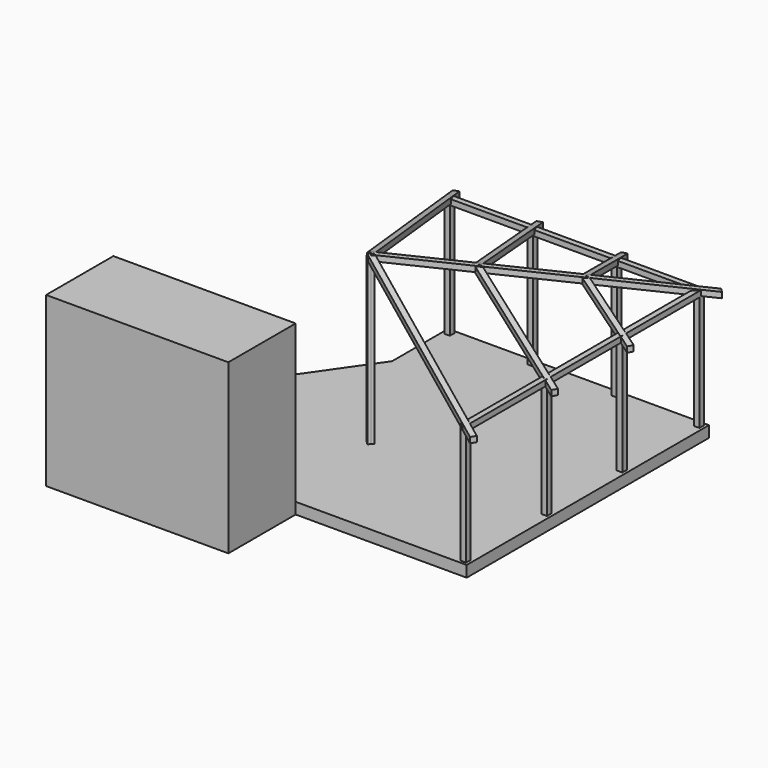
from build123d import *

# Parameters (mm, degrees)
F1_DEPTH  = 200
F2_W      = 100
F2_H      = 100
F3_DEPTH  = 2050
F5_DEPTH  = 100
F8_W      = 100
F8_H      = 100
F9_DEPTH  = 2050
F10_DEPTH = 1800
F14_W     = 100
F14_H     = 100
F19_W     = 100
F19_H     = 100
F24_W     = 100
F24_H     = 100
F29_W     = 100
F29_H     = 100
F34_W     = 100
F34_H     = 100
F39_W     = 100
F39_H     = 100
F44_W     = 100
F44_H     = 100
F47_DEPTH = 2923.5723116355
F6_W      = 3250
F6_H      = 1500
F48_DEPTH = 3000
F51_DEPTH = 170
F53_DEPTH = 170


with BuildPart() as f1:
    # F0 (on Top) → F1 (new body)
    with BuildSketch(Plane.XY):
        Polygon((0, -5400), (0, 0), (-4650, 0), (-4650, -1250), (-6300, -3620), (-6300, -5400), align=None)
    extrude(amount=F1_DEPTH)

    # F8 (on face) → F9 (join)
    with BuildSketch(Plane.XY.offset(200)):
        with Locations((-100, -5300)):
            Rectangle(F8_W, F8_H)
    extrude(amount=F9_DEPTH)


with BuildPart() as f3:
    # F2 (on face) → F3 (new body)
    with BuildSketch(Plane.XY.offset(200)):
        with Locations((-100, -100)):
            Rectangle(F2_W, F2_H)
    extrude(amount=F3_DEPTH)


with BuildPart() as f3b:
    # F2 (on face) → F3, piece 2 (new body)
    with BuildSketch(Plane.XY.offset(200)):
        with Locations((-100, -1820)):
            Rectangle(F2_W, F2_H)
    extrude(amount=F3_DEPTH)


with BuildPart() as f3c:
    # F2 (on face) → F3, piece 3 (new body)
    with BuildSketch(Plane.XY.offset(200)):
        with Locations((-100, -3500)):
            Rectangle(F2_W, F2_H)
    extrude(amount=F3_DEPTH)


with BuildPart() as f3d:
    # F2 (on face) → F3, piece 4 (new body)
    with BuildSketch(Plane.XY.offset(200)):
        with Locations((-1570, -100)):
            Rectangle(F2_W, F2_H)
    extrude(amount=F3_DEPTH)


with BuildPart() as f3e:
    # F2 (on face) → F3, piece 5 (new body)
    with BuildSketch(Plane.XY.offset(200)):
        with Locations((-4550, -100)):
            Rectangle(F2_W, F2_H)
    extrude(amount=F3_DEPTH)


with BuildPart() as f3f:
    # F2 (on face) → F3, piece 6 (new body)
    with BuildSketch(Plane.XY.offset(200)):
        with Locations((-3065, -100)):
            Rectangle(F2_W, F2_H)
    extrude(amount=F3_DEPTH)


with BuildPart() as f5:
    # F4 (on face) → F5 (new body)
    with BuildSketch(Plane.XY.offset(2250)):
        Polygon((-150, -50), (-4600, -50), (-4600, -150), (-150, -150), (-50, -50), align=None)
        Polygon((-50, -150), (-50, -50), (-150, -150), (-150, -3550), (-50, -3550), align=None)
    extrude(amount=F5_DEPTH)

    # F10 (add, through all): a face of the model
    f10_faces = [f5.faces().sort_by_distance(p)[0] for p in [
        (-100, -3550, 2300),
    ]]
    extrude(f10_faces, amount=F10_DEPTH)


with BuildPart() as f15:
    # F15: sweep along a path in F12
    with BuildLine(Plane(origin=(0, 0, 0), x_dir=(-0.7071067812, -0.7071067812, 0), z_dir=(-0.7071067812, 0.7071067812, 0))) as f15_path:
        Line((4741.4213562373, 3123.5723116355), (-175.4912601344, 2256.5879555833))
    # F14 (on face) → F15 (sweep)
    with BuildSketch(Plane(origin=(-3352.6911934581, -3352.6911934581, 0), x_dir=(0.7071067812, -0.7071067812, 0), z_dir=(-0.7071067812, -0.7071067812, 0))):
        with Locations((0, 3123.5723116355)):
            Rectangle(F14_W, F14_H)
    sweep(path=f15_path.line)


with BuildPart() as f20:
    # F20: sweep along a path in F17
    with BuildLine(Plane(origin=(-2362.1864095052, -3945.6828345314, 0), x_dir=(0.8579936122, -0.5136603562, 0), z_dir=(-0.5136603562, -0.8579936122, 0))) as f20_path:
        Line((-1154.4430750004, 3123.5723116355), (2949.6790376872, 2247.8291507744))
    # F19 (on face) → F20 (sweep)
    with BuildSketch(Plane(origin=(-990.5047839529, 592.9916410733, 0), x_dir=(0.5136603562, 0.8579936122, 0), z_dir=(0.8579936122, -0.5136603562, 0))):
        with Locations((-4598.7321800652, 3123.5723116355)):
            Rectangle(F19_W, F19_H)
    sweep(path=f20_path.line)


with BuildPart() as f25:
    # F25: sweep along a path in F22
    with BuildLine(Plane(origin=(-1502.7624460571, -2726.9755756037, 0), x_dir=(0.8758188091, -0.4826400455, 0), z_dir=(-0.4826400455, -0.8758188091, 0))) as f25_path:
        Line((-901.1779233051, 2859.0818405728), (1902.9906666078, 2246.6579034372))
    # F24 (on face) → F25 (sweep)
    with BuildSketch(Plane(origin=(-789.2685756212, 434.9445539254, 0), x_dir=(-0.4826400455, -0.8758188091, 0), z_dir=(-0.8758188091, 0.4826400455, 0))):
        with Locations((3113.6298365764, 2859.0818405728)):
            Rectangle(F24_W, F24_H)
    sweep(path=f25_path.line)


with BuildPart() as f30:
    # F30: sweep along a path in F27
    with BuildLine(Plane(origin=(-766.4947975737, -1473.2363669454, 0), x_dir=(0.8871152605, -0.4615479548, 0), z_dir=(-0.4615479548, -0.8871152605, 0))) as f30_path:
        Line((-524.03117499, 2594.5913695101), (1051.7669505735, 2246.0017914729))
    # F29 (on face) → F30 (sweep)
    with BuildSketch(Plane(origin=(-464.8760523248, 241.8655170469, 0), x_dir=(-0.4615479548, -0.8871152605, 0), z_dir=(-0.8871152605, 0.4615479548, 0))):
        with Locations((1660.7045696324, 2594.5913695101)):
            Rectangle(F29_W, F29_H)
    sweep(path=f30_path.line)


with BuildPart() as f35:
    # F35: sweep along a path in F32
    with BuildLine(Plane(origin=(-1468.3846024822, -439.5003017846, 0), x_dir=(-0.2867402487, 0.9580083662, 0), z_dir=(0.9580083662, 0.2867402487, 0))) as f35_path:
        Line((-826.579992429, 2594.5913695101), (649.7307515053, 2241.9113541709))
    # F34 (on face) → F35 (sweep)
    with BuildSketch(Plane(origin=(237.0137525837, -791.8705481139, 0), x_dir=(0.9580083662, 0.2867402487, 0), z_dir=(0.2867402487, -0.9580083662, 0))):
        with Locations((-1532.7471598654, 2594.5913695101)):
            Rectangle(F34_W, F34_H)
    sweep(path=f35_path.line)


with BuildPart() as f40:
    # F40: sweep along a path in F37
    with BuildLine(Plane(origin=(-2757.3927763263, -972.3307088586, 0), x_dir=(0.3325564986, -0.9430833342, 0), z_dir=(-0.9430833342, -0.3325564986, 0))) as f40_path:
        Line((1399.346446862, 2859.0818405728), (-1221.3558871335, 2242.7685480654))
    # F39 (on face) → F40 (sweep)
    with BuildSketch(Plane(origin=(465.361754648, -1319.7003128197, 0), x_dir=(-0.9430833342, -0.3325564986, 0), z_dir=(-0.3325564986, 0.9430833342, 0))):
        with Locations((2923.806069206, 2859.0818405728)):
            Rectangle(F39_W, F39_H)
    sweep(path=f40_path.line)


with BuildPart() as f45:
    # F45: sweep along a path in F42
    with BuildLine(Plane(origin=(-4039.4766020219, -1486.9228653332, 0), x_dir=(-0.3454383305, 0.9384414525, 0), z_dir=(0.9384414525, 0.3454383305, 0))) as f45_path:
        Line((-1988.1563448709, 3123.5723116355), (1774.6037001363, 2243.0355831929))
    # F44 (on face) → F45 (sweep)
    with BuildSketch(Plane(origin=(686.7854085638, -1865.768328125, 0), x_dir=(-0.9384414525, -0.3454383305, 0), z_dir=(-0.3454383305, 0.9384414525, 0))):
        with Locations((4304.4524420341, 3123.5723116355)):
            Rectangle(F44_W, F44_H)
    sweep(path=f45_path.line)


with BuildPart() as f47:
    # F46 (on face) → F47 (new body, through all)
    with BuildSketch(Plane.XY.offset(200)):
        Polygon((-3352.6911934581, -3281.9805153395), (-3388.0465325174, -3317.3358543988), (-3317.3358543988, -3388.0465325174), (-3281.9805153395, -3352.6911934581), align=None)
        Polygon((-3317.3358543988, -3388.0465325174), (-3388.0465325174, -3317.3358543988), (-3423.4018715768, -3352.6911934581), (-3352.6911934581, -3423.4018715768), align=None)
    extrude(amount=F47_DEPTH)


with BuildPart() as f48:
    # F6 (on Top) → F48 (new body)
    with BuildSketch(Plane.XY):
        with Locations((-4675, -6150)):
            Rectangle(F6_W, F6_H)
    extrude(amount=F48_DEPTH)


with BuildPart() as f51:
    # F50 (on offset) → F51 (new body)
    with BuildSketch(Plane.XY.offset(540)):
        Polygon((-6300, -4672.9001833584), (-6300, -5400), (-5300, -5400), (-5300, -5080), (-5980, -4672.9001833584), align=None)
    extrude(amount=-F51_DEPTH)


with BuildPart() as f53:
    # F52 (on face) → F53 (new body, through all)
    with BuildSketch(Plane(origin=(0, 0, 370), x_dir=(1, 0, 0), z_dir=(0, 0, -1))):
        Polygon((-4980, 5400), (-6300, 5400), (-6300, 4352.9001833584), (-5891.5328960789, 4352.9001833584), (-4980, 4898.6132346179), align=None)
    extrude(amount=F53_DEPTH)


solid = Compound([f1.part, f3.part, f3b.part, f3c.part, f3d.part, f3e.part, f3f.part, f5.part, f15.part, f20.part, f25.part, f30.part, f35.part, f40.part, f45.part, f47.part, f48.part, f51.part, f53.part])
